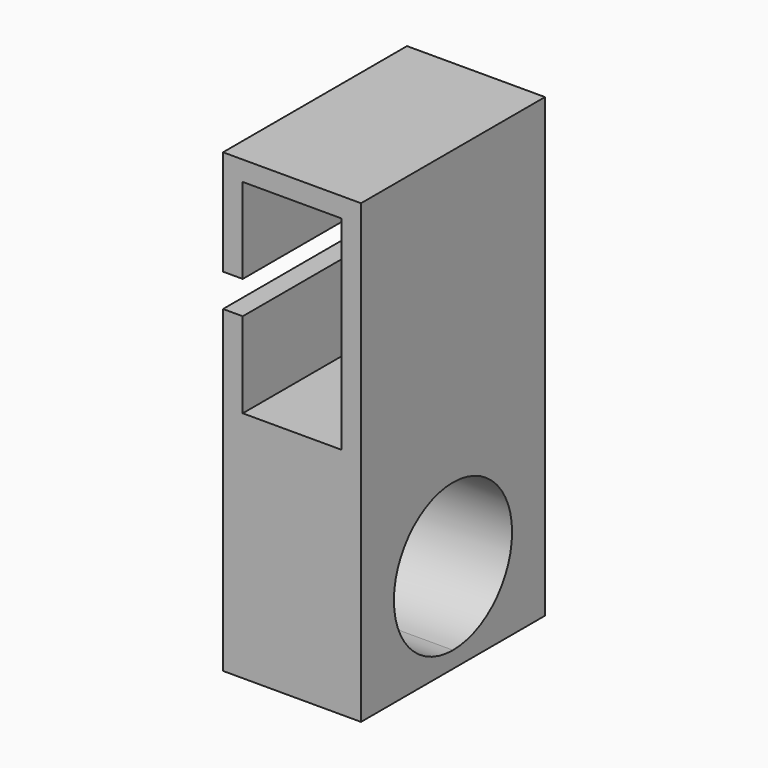
from build123d import *

# Parameters (mm, degrees)
F1_DEPTH = 44.45
F2_DEPTH = 41.275
F4_DEPTH = 38.1


with BuildPart() as f1:
    # F0 (on Front) → F1 (new body)
    with BuildSketch(Plane.XZ):
        Polygon((0, 19.05), (0, 0), (0, -20.32), (-19.05, -20.32), (-19.05, -3.81), (-22.86, -3.81), (-22.86, -24.13), (3.81, -24.13), (3.81, 22.86), (-9.525, 22.86), (-22.86, 22.86), (-22.86, 2.54), (-19.05, 2.54), (-19.05, 19.05), align=None)
    extrude(amount=F1_DEPTH)

    # F2 (add): a face of the model
    f2_faces = [f1.faces().sort_by_distance(p)[0] for p in [
        (-9.525, -22.225, -24.13),
    ]]
    extrude(f2_faces, amount=F2_DEPTH)

    # F3 (on face) → F4 (cut)
    with BuildSketch(Plane(origin=(-22.86, 0, 0), x_dir=(0, -1, 0), z_dir=(-1, 0, 0))):
        with BuildLine():
            ThreePointArc((22.225, -33.6804), (7.9502, -47.9552), (22.225, -62.23))
            Line((22.225, -62.23), (22.225, -33.6804))
        make_face()
        with BuildLine():
            Line((22.225, -33.6804), (22.225, -62.23))
            ThreePointArc((22.225, -62.23), (32.3188078801, -58.0490078801), (36.4998, -47.9552))
            ThreePointArc((36.4998, -47.9552), (32.3188078801, -37.8613921199), (22.225, -33.6804))
        make_face()
    extrude(amount=-F4_DEPTH, mode=Mode.SUBTRACT)


solid = f1.part
